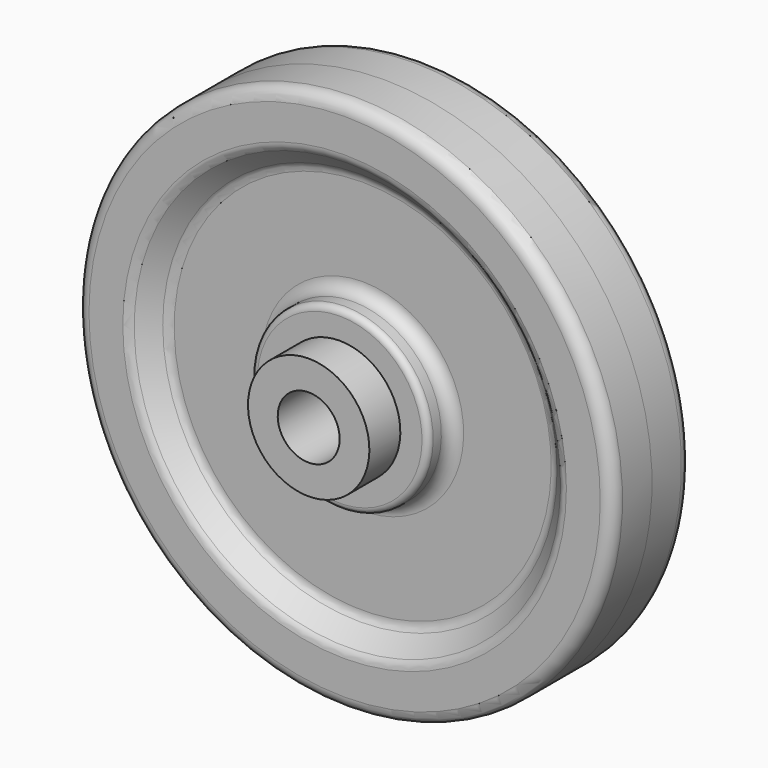
from build123d import *

# Parameters (mm, degrees)
F2_R = 1.016
F3_R = 0.508


with BuildPart() as f1:
    # F0 (on Right) → F1 (revolve)
    with BuildSketch(Plane.YZ):
        Polygon((-7.7216, 4.9784), (-7.7216, 2.54), (0, 2.54), (0, 21.9837), (-4.0386, 21.9837), (-4.0386, 17.78), (-2.1844, 15.875), (-2.1844, 7.2644), (-4.5466, 7.2644), (-4.5466, 4.9784), align=None)
    revolve(axis=Axis((0, -3.8608, 0), (0, -1, 0)))

    # F2
    f2_edges = [f1.edges().sort_by_distance(p)[0] for p in [
        (0, -2.1844, -7.2644),
        (0, -2.1844, -15.875),
        (0, -4.0386, -17.78),
        (0, -4.0386, -21.9837),
    ]]
    fillet(f2_edges, radius=F2_R)

    # F3
    f3_edges = [f1.edges().sort_by_distance(p)[0] for p in [
        (0, -4.5466, -7.2644),
    ]]
    fillet(f3_edges, radius=F3_R)

    # F4: F1 across plane


with BuildPart() as f1_1:
    add(f1.part)
    add(f1.part.mirror(Plane.XZ))


solid = f1_1.part
